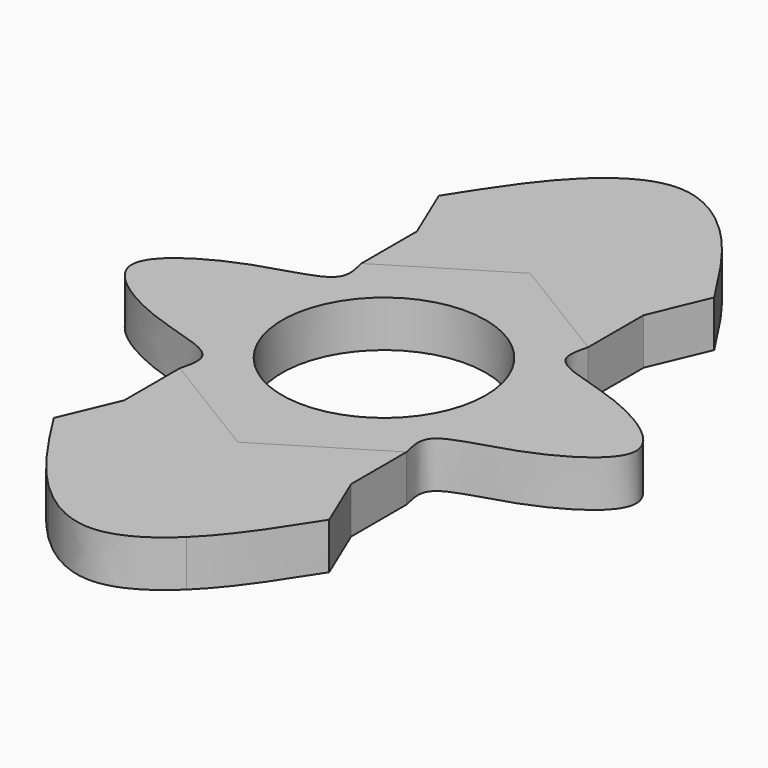
from build123d import *

# Parameters (mm, degrees)
F2_DEPTH = 5
F0_R     = 11
F3_DEPTH = 25
F5_DEPTH = 5


with BuildPart() as f2:
    # F1 (on Top) → F2 (new body)
    with BuildSketch(Plane.XY):
        with BuildLine():
            Line((-12.25, 0), (0, 0))
            Line((0, 0), (12.25, 0))
            Line((12.25, 0), (19.75, 0))
            Line((19.75, 0), (27.25, 0))
            add(Edge.make_bspline(
                [(12.25, 12.25), (11.9628576121, 11.122778007), (11.2086978362, 8.1622068007), (19.9092662819, 6.8894781113), (27.25, 2.3637275782), (27.25, 0)],
                knots=[0, 0, 0, 0, 0.1135176944, 0.2981464339, 0.5, 0.5, 0.5, 0.5], degree=3))
            Line((12.25, 12.25), (0, 19.75))
            Line((0, 19.75), (-12.25, 12.25))
            add(Edge.make_bspline(
                [(-12.25, 12.25), (-11.9628576121, 11.122778007), (-11.2086978362, 8.1622068007), (-19.9092662819, 6.8894781113), (-27.25, 2.3637275782), (-27.25, 0)],
                knots=[0, 0, 0, 0, 0.1135176944, 0.2981464339, 0.5, 0.5, 0.5, 0.5], degree=3))
            Line((-27.25, 0), (-19.75, 0))
            Line((-19.75, 0), (-12.25, 0))
        make_face()
        with BuildLine():
            Line((12.25, 0), (0, 0))
            Line((0, 0), (-12.25, 0))
            Line((-12.25, 0), (-19.75, 0))
            Line((-19.75, 0), (-27.25, 0))
            add(Edge.make_bspline(
                [(-27.25, 0), (-27.25, -2.3637275782), (-19.9092662819, -6.8894781113), (-11.2086978362, -8.1622068007), (-11.9628576121, -11.122778007), (-12.25, -12.25)],
                knots=[0.5, 0.5, 0.5, 0.5, 0.7018535661, 0.8864823056, 1, 1, 1, 1], degree=3))
            Line((-12.25, -12.25), (0, -19.75))
            Line((0, -19.75), (12.25, -12.25))
            add(Edge.make_bspline(
                [(27.25, 0), (27.25, -2.3637275782), (19.9092662819, -6.8894781113), (11.2086978362, -8.1622068007), (11.9628576121, -11.122778007), (12.25, -12.25)],
                knots=[0.5, 0.5, 0.5, 0.5, 0.7018535661, 0.8864823056, 1, 1, 1, 1], degree=3))
            Line((27.25, 0), (19.75, 0))
            Line((19.75, 0), (12.25, 0))
        make_face()
    extrude(amount=F2_DEPTH)

    # F0 (on Top) → F3 (cut)
    with BuildSketch(Plane.XY):
        Circle(F0_R)
    extrude(amount=F3_DEPTH, mode=Mode.SUBTRACT)


with BuildPart() as f5:
    # F4 (on face) → F5 (new body)
    with BuildSketch(Plane.XY.offset(5)):
        Polygon((-12.25, 19.75), (-12.25, 12.25), (0, 19.75), (0, 32.25), (-6.125, 26), (-9.7279411765, 22.3235294118), align=None)
        Polygon((0, 32.25), (0, 19.75), (12.25, 12.25), (12.25, 19.75), (9.7279411765, 22.3235294118), (6.125, 26), align=None)
        Polygon((14.875, 26), (6.125, 26), (9.7279411765, 22.3235294118), align=None)
        Polygon((-14.875, 26), (-9.7279411765, 22.3235294118), (-6.125, 26), align=None)
        Polygon((9.7279411765, 22.3235294118), (12.25, 19.75), (14.875, 26), align=None)
        Polygon((-7.4375, 29.125), (-14.875, 26), (-6.125, 26), (0, 32.25), align=None)
        Polygon((7.4375, 29.125), (0, 32.25), (6.125, 26), (14.875, 26), align=None)
        Polygon((-14.875, 26), (-12.25, 19.75), (-9.7279411765, 22.3235294118), align=None)
        Polygon((-7.4375, 29.125), (0, 32.25), (0, 36), (-7.4375, 36), align=None)
        Polygon((0, 36), (0, 32.25), (7.4375, 29.125), (7.4375, 36), align=None)
        with BuildLine():
            Line((7.4375, 36), (7.4375, 29.125))
            Line((7.4375, 29.125), (14.875, 26))
            add(Edge.make_bspline(
                [(14.875, 26), (12.5480593381, 29.6556331865), (10.2211186762, 33.311266373), (7.4375, 36)],
                knots=[0, 0, 0, 0, 0.2750989561, 0.2750989561, 0.2750989561, 0.2750989561], degree=3))
        make_face()
        with BuildLine():
            add(Edge.make_bspline(
                [(-7.4375, 36), (-10.2211186762, 33.311266373), (-12.5480593381, 29.6556331865), (-14.875, 26)],
                knots=[0.7249010439, 0.7249010439, 0.7249010439, 0.7249010439, 1, 1, 1, 1], degree=3))
            Line((-14.875, 26), (-7.4375, 29.125))
            Line((-7.4375, 29.125), (-7.4375, 36))
        make_face()
        with BuildLine():
            add(Edge.make_bspline(
                [(0, 39.75), (-2.5809071759, 39.75), (-5.1618143518, 38.1981144828), (-7.4375, 36)],
                knots=[0.5, 0.5, 0.5, 0.5, 0.7249010439, 0.7249010439, 0.7249010439, 0.7249010439], degree=3))
            Line((-7.4375, 36), (0, 36))
            Line((0, 36), (0, 39.75))
        make_face()
        with BuildLine():
            Line((0, 39.75), (0, 36))
            Line((0, 36), (7.4375, 36))
            add(Edge.make_bspline(
                [(7.4375, 36), (5.1618143518, 38.1981144828), (2.5809071759, 39.75), (0, 39.75)],
                knots=[0.2750989561, 0.2750989561, 0.2750989561, 0.2750989561, 0.5, 0.5, 0.5, 0.5], degree=3))
        make_face()
    extrude(amount=-F5_DEPTH)


with BuildPart() as f5b:
    # F4 (on face) → F5, piece 2 (new body)
    with BuildSketch(Plane.XY.offset(5)):
        Polygon((0, -19.75), (-12.25, -12.25), (-12.25, -19.75), (-9.7279411765, -22.3235294118), (-6.125, -26), (0, -32.25), align=None)
        Polygon((12.25, -12.25), (0, -19.75), (0, -32.25), (6.125, -26), (9.7279411765, -22.3235294118), (12.25, -19.75), align=None)
        Polygon((9.7279411765, -22.3235294118), (6.125, -26), (14.875, -26), align=None)
        Polygon((-6.125, -26), (-9.7279411765, -22.3235294118), (-14.875, -26), align=None)
        Polygon((6.125, -26), (0, -32.25), (7.4375, -29.125), (14.875, -26), align=None)
        Polygon((-6.125, -26), (-14.875, -26), (-7.4375, -29.125), (0, -32.25), align=None)
        Polygon((-9.7279411765, -22.3235294118), (-12.25, -19.75), (-14.875, -26), align=None)
        Polygon((14.875, -26), (12.25, -19.75), (9.7279411765, -22.3235294118), align=None)
        with BuildLine():
            Line((0, -36), (-7.4375, -36))
            add(Edge.make_bspline(
                [(0, -39.75), (-2.5809071759, -39.75), (-5.1618143518, -38.1981144828), (-7.4375, -36)],
                knots=[0.5, 0.5, 0.5, 0.5, 0.7249010439, 0.7249010439, 0.7249010439, 0.7249010439], degree=3))
            Line((0, -39.75), (0, -36))
        make_face()
        with BuildLine():
            Line((7.4375, -36), (0, -36))
            Line((0, -36), (0, -39.75))
            add(Edge.make_bspline(
                [(7.4375, -36), (5.1618143518, -38.1981144828), (2.5809071759, -39.75), (0, -39.75)],
                knots=[0.2750989561, 0.2750989561, 0.2750989561, 0.2750989561, 0.5, 0.5, 0.5, 0.5], degree=3))
        make_face()
        with BuildLine():
            Line((14.875, -26), (7.4375, -29.125))
            Line((7.4375, -29.125), (7.4375, -32.25))
            Line((7.4375, -32.25), (7.4375, -36))
            add(Edge.make_bspline(
                [(14.875, -26), (12.5480593381, -29.6556331865), (10.2211186762, -33.311266373), (7.4375, -36)],
                knots=[0, 0, 0, 0, 0.2750989561, 0.2750989561, 0.2750989561, 0.2750989561], degree=3))
        make_face()
        with BuildLine():
            Line((-7.4375, -29.125), (-14.875, -26))
            add(Edge.make_bspline(
                [(-7.4375, -36), (-10.2211186762, -33.311266373), (-12.5480593381, -29.6556331865), (-14.875, -26)],
                knots=[0.7249010439, 0.7249010439, 0.7249010439, 0.7249010439, 1, 1, 1, 1], degree=3))
            Line((-7.4375, -36), (-7.4375, -32.25))
            Line((-7.4375, -32.25), (-7.4375, -29.125))
        make_face()
        Polygon((0, -36), (0, -32.25), (-7.4375, -29.125), (-7.4375, -32.25), (-7.4375, -36), align=None)
        Polygon((7.4375, -29.125), (0, -32.25), (0, -36), (7.4375, -36), (7.4375, -32.25), align=None)
    extrude(amount=-F5_DEPTH)


solid = Compound([f2.part, f5.part, f5b.part])
